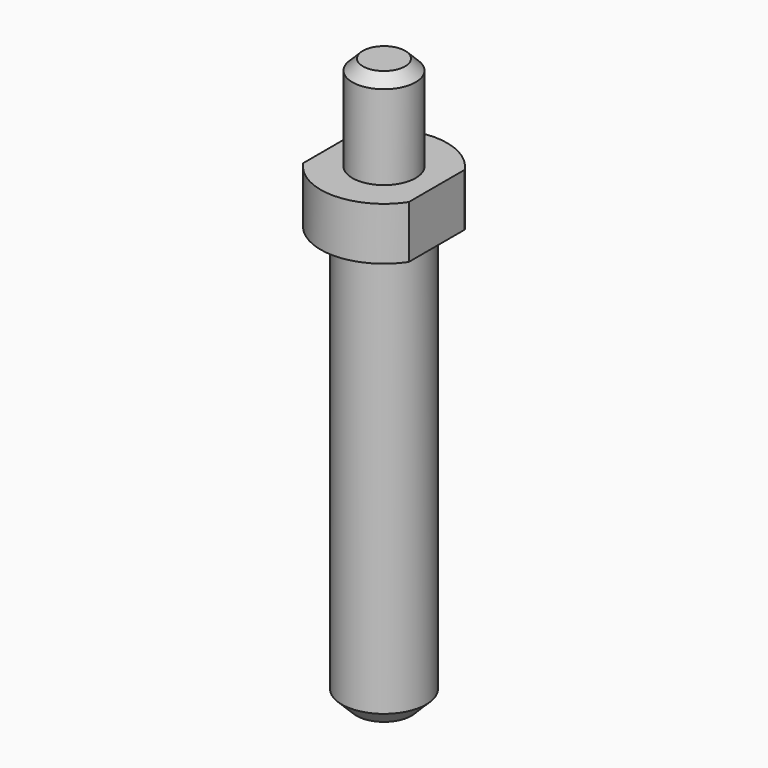
from build123d import *

# Parameters (mm, degrees)
F2_SIZE  = 0.5
F3_SIZE  = 0.7
F5_DEPTH = 2.5


with BuildPart() as f1:
    # F0 (on Front) → F1 (revolve)
    with BuildSketch(Plane.XZ):
        Polygon((3, 2.5), (1.5, 2.5), (1.5, 7), (0, 7), (0, -20), (2, -20), (2, 0), (3, 0), align=None)
    revolve(axis=Axis((0, 0, -6.5), (0, 0, 1)))

    # F2
    f2_edges = [f1.edges().sort_by_distance(p)[0] for p in [
        (-1.5, 0, 7),
    ]]
    chamfer(f2_edges, length=F2_SIZE)

    # F3
    f3_edges = [f1.edges().sort_by_distance(p)[0] for p in [
        (-2, 0, -20),
    ]]
    chamfer(f3_edges, length=F3_SIZE)

    # F4 (on face) → F5 (cut, through all)
    with BuildSketch(Plane(origin=(0, 0, 0), x_dir=(1, 0, 0), z_dir=(0, 0, -1))):
        with BuildLine():
            ThreePointArc((3, 0), (2.8722813233, 0.8660254038), (2.5, 1.6583123952))
            Line((2.5, 1.6583123952), (2.5, -1.6583123952))
            ThreePointArc((2.5, -1.6583123952), (2.8722813233, -0.8660254038), (3, 0))
        make_face()
        with BuildLine():
            Line((-2.5, -1.6583123952), (-2.5, 1.6583123952))
            ThreePointArc((-2.5, 1.6583123952), (-3, 0), (-2.5, -1.6583123952))
        make_face()
    extrude(amount=-F5_DEPTH, mode=Mode.SUBTRACT)


solid = f1.part
